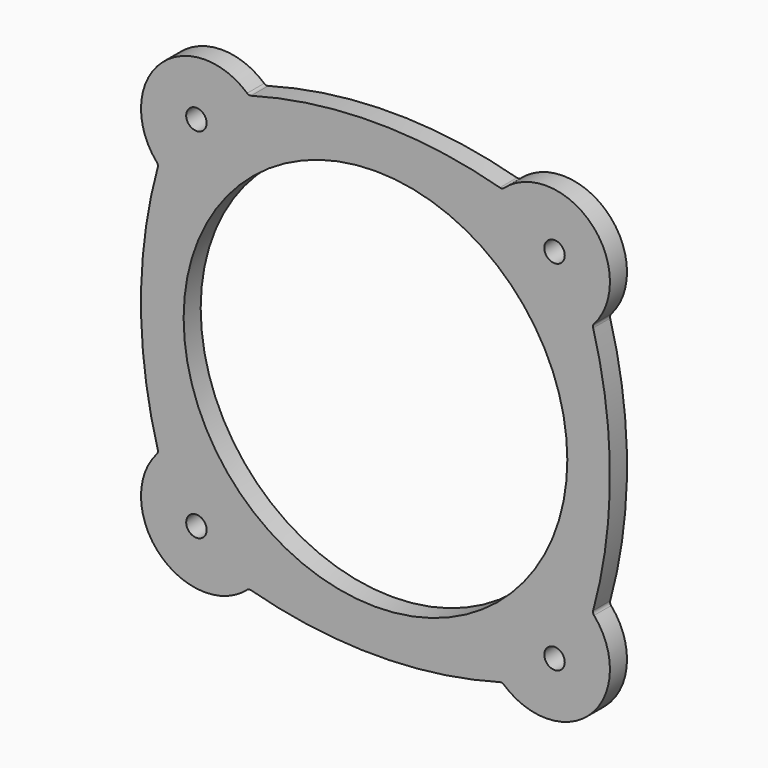
from build123d import *

# Parameters (mm, degrees)
PAD_DEPTH       = 5
PAD001_DEPTH    = 5
SKETCH001_R     = 45
POCKET_DEPTH    = 5.001
FILLET_R        = 1
FILLET001_R     = 1
FILLET002_R     = 1
FILLET003_R     = 1
FILLET004_R     = 1
FILLET005_R     = 1
FILLET006_R     = 1
FILLET007_R     = 1
SKETCH002_R     = 2.4
POCKET001_DEPTH = 5


with BuildPart() as part:
    # Sketch → Pad (new body)
    with BuildSketch(Plane.XZ):
        with BuildLine():
            ThreePointArc((29.708208, 50.912333), (0, 55), (-29.708208, 50.912333))
            ThreePointArc((-29.708208, 50.912333), (-50.606602, 50.606602), (-50.912333, 29.708208))
            ThreePointArc((-50.912333, 29.708208), (-55, 0), (-50.912333, -29.708208))
            ThreePointArc((-50.912333, -29.708208), (-50.606602, -50.606602), (-29.708208, -50.912333))
            ThreePointArc((-29.708208, -50.912333), (0, -55), (29.708208, -50.912333))
            ThreePointArc((29.708208, -50.912333), (50.606602, -50.606602), (50.912333, -29.708208))
            ThreePointArc((50.912333, -29.708208), (55, 0), (50.912333, 29.708208))
            ThreePointArc((50.912333, 29.708208), (50.606602, 50.606602), (29.708208, 50.912333))
        make_face()
    extrude(amount=PAD_DEPTH)

    # Sketch → Pad001 (join)
    with BuildSketch(Plane.XZ):
        with BuildLine():
            ThreePointArc((29.708208, 50.912333), (0, 55), (-29.708208, 50.912333))
            ThreePointArc((-29.708208, 50.912333), (-50.606602, 50.606602), (-50.912333, 29.708208))
            ThreePointArc((-50.912333, 29.708208), (-55, 0), (-50.912333, -29.708208))
            ThreePointArc((-50.912333, -29.708208), (-50.606602, -50.606602), (-29.708208, -50.912333))
            ThreePointArc((-29.708208, -50.912333), (0, -55), (29.708208, -50.912333))
            ThreePointArc((29.708208, -50.912333), (50.606602, -50.606602), (50.912333, -29.708208))
            ThreePointArc((50.912333, -29.708208), (55, 0), (50.912333, 29.708208))
            ThreePointArc((50.912333, 29.708208), (50.606602, 50.606602), (29.708208, 50.912333))
        make_face()
    extrude(amount=PAD001_DEPTH)

    # Sketch001 (on Face5 of Pad001) → Pocket (cut, through all)
    with BuildSketch(Plane.XZ.offset(5)):
        Circle(SKETCH001_R)
    extrude(amount=-POCKET_DEPTH, mode=Mode.SUBTRACT)

    # Fillet
    fillet_edges = [part.edges().sort_by_distance(p)[0] for p in [
        (-29.708208, -2.5, 50.912333),
    ]]
    fillet(fillet_edges, radius=FILLET_R)

    # Fillet001
    fillet001_edges = [part.edges().sort_by_distance(p)[0] for p in [
        (29.708208, -2.5, 50.912333),
    ]]
    fillet(fillet001_edges, radius=FILLET001_R)

    # Fillet002
    fillet002_edges = [part.edges().sort_by_distance(p)[0] for p in [
        (50.912333, -2.5, -29.708208),
    ]]
    fillet(fillet002_edges, radius=FILLET002_R)

    # Fillet003
    fillet003_edges = [part.edges().sort_by_distance(p)[0] for p in [
        (50.912333, -2.5, 29.708208),
    ]]
    fillet(fillet003_edges, radius=FILLET003_R)

    # Fillet004
    fillet004_edges = [part.edges().sort_by_distance(p)[0] for p in [
        (29.708208, -2.5, -50.912333),
    ]]
    fillet(fillet004_edges, radius=FILLET004_R)

    # Fillet005
    fillet005_edges = [part.edges().sort_by_distance(p)[0] for p in [
        (-29.708208, -2.5, -50.912333),
    ]]
    fillet(fillet005_edges, radius=FILLET005_R)

    # Fillet006
    fillet006_edges = [part.edges().sort_by_distance(p)[0] for p in [
        (-50.912333, -2.5, 29.708208),
    ]]
    fillet(fillet006_edges, radius=FILLET006_R)

    # Fillet007
    fillet007_edges = [part.edges().sort_by_distance(p)[0] for p in [
        (-50.912333, -2.5, -29.708208),
    ]]
    fillet(fillet007_edges, radius=FILLET007_R)

    # Sketch002 (on Face19 of Fillet007) → Pocket001 (cut)
    with BuildSketch(Plane.XZ.offset(5)):
        with Locations((-42, 42)):
            Circle(SKETCH002_R)
        with Locations((42, 42)):
            Circle(SKETCH002_R)
        with Locations((42, -42)):
            Circle(SKETCH002_R)
        with Locations((-42, -42)):
            Circle(SKETCH002_R)
    extrude(amount=-POCKET001_DEPTH, mode=Mode.SUBTRACT)


solid = part.part
